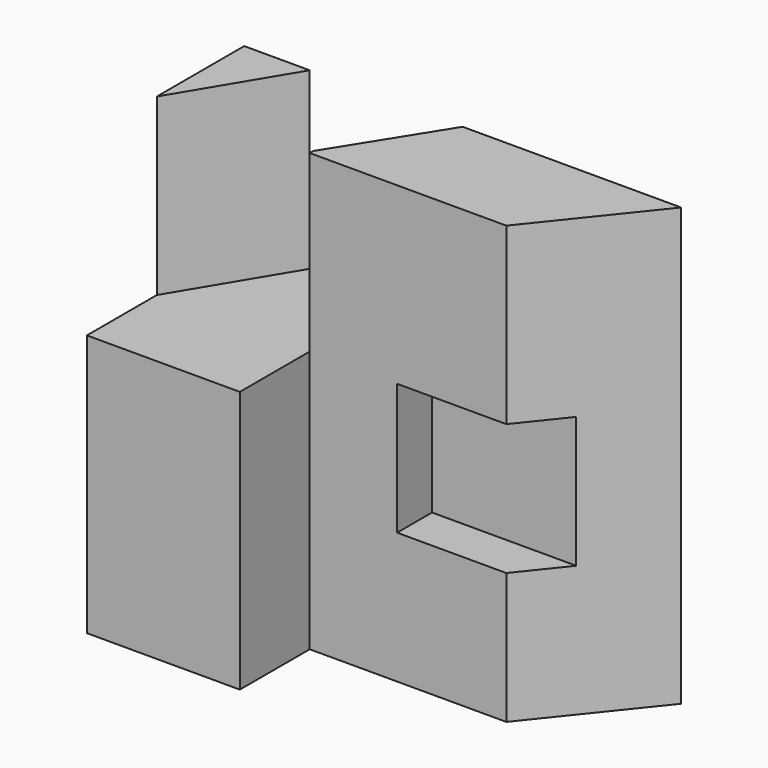
from build123d import *

# Parameters (mm, degrees)
F0_W      = 100
F0_H      = 45
F1_DEPTH  = 100
F2_W      = 35
F2_H      = 45
F3_DEPTH  = 40
F5_DEPTH  = 40
F6_W      = 65
F6_H      = 20
F7_DEPTH  = 100
F9_DEPTH  = 85
F11_W     = 39.694275
F11_H     = 30
F12_DEPTH = 10
F13_DEPTH = 100


with BuildPart() as f1:
    # F0 (on Top) → F1 (new body)
    with BuildSketch(Plane.XY):
        with Locations((-4.162622, -25.405638)):
            Rectangle(F0_W, F0_H)
    extrude(amount=F1_DEPTH)

    # F2 (on face) → F3 (cut)
    with BuildSketch(Plane.XY.offset(100)):
        with Locations((-36.662622, -25.405638)):
            Rectangle(F2_W, F2_H)
    extrude(amount=-F3_DEPTH, mode=Mode.SUBTRACT)

    # F4 (on face) → F5 (join)
    with BuildSketch(Plane.XY.offset(60)):
        Polygon((-39.162622, -2.905638), (-54.162622, -2.905638), (-54.162622, -27.905638), align=None)
    extrude(amount=F5_DEPTH)

    # F6 (on face) → F7 (cut)
    with BuildSketch(Plane.XY.offset(100)):
        with Locations((13.337378, -37.905638)):
            Rectangle(F6_W, F6_H)
    extrude(amount=-F7_DEPTH, mode=Mode.SUBTRACT)

    # F8 (on face) → F9 (cut)
    with BuildSketch(Plane.XY.offset(100)):
        Polygon((-19.162622, -26.905638), (-4.162622, -2.905638), (-19.162622, -2.905638), align=None)
    extrude(amount=-F9_DEPTH, mode=Mode.SUBTRACT)

    # F11 (on face) → F12 (cut)
    with BuildSketch(Plane.XZ.offset(27.905638)):
        with Locations((20.684515, 45)):
            Rectangle(F11_W, F11_H)
    extrude(amount=-F12_DEPTH, mode=Mode.SUBTRACT)

    # F10 (on face) → F13 (cut)
    with BuildSketch(Plane.XY.offset(100)):
        Polygon((25.837378, -27.905638), (45.837378, -27.905638), (45.837378, -2.905638), align=None)
    extrude(amount=-F13_DEPTH, mode=Mode.SUBTRACT)


solid = f1.part
